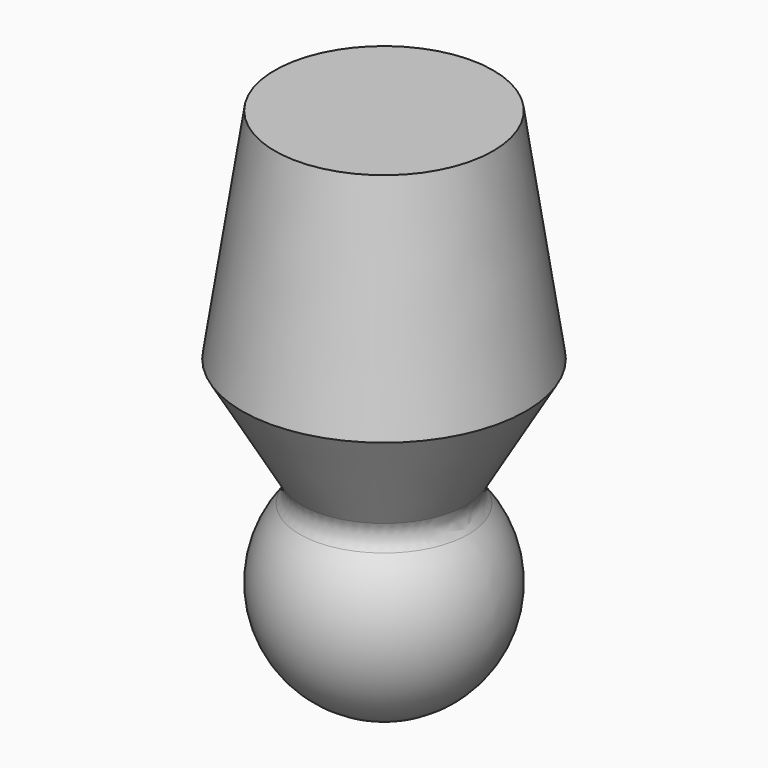
from build123d import *

# Parameters (mm, degrees)
FILLET005_R = 1


with BuildPart() as cone001:
    # Cone001 → Cone001 (revolve)
    with BuildSketch(Plane(origin=(0, 0, 17), x_dir=(1, 0, 0), z_dir=(0, -1, 0))):
        Polygon((0, 0), (6.5, 0), (5, 10), (0, 10), align=None)
    revolve(axis=Axis((0, 0, 17), (0, 0, 1)))


with BuildPart() as cone:
    # Cone → Cone (revolve)
    with BuildSketch(Plane(origin=(0, 0, 11), x_dir=(1, 0, 0), z_dir=(0, -1, 0))):
        Polygon((0, 0), (3, 0), (6.5, 6), (0, 6), align=None)
    revolve(axis=Axis((0, 0, 11), (0, 0, 1)))


with BuildPart() as shaft_in_place:
    # Sphere → Sphere (revolve)
    with BuildSketch(Plane(origin=(0, 0, 8), x_dir=(1, 0, 0), z_dir=(0, -1, 0))):
        with BuildLine():
            ThreePointArc((0, -5), (5, 0), (0, 5))
            Line((0, 5), (0, -5))
        make_face()
    revolve(axis=Axis((0, 0, 8), (0, 0, 1)))

    # Fusion: union Cone001, Cone
    add(cone001.part)
    add(cone.part)


with BuildPart() as shaft_in_place_1:
    # Fusion placement: moved
    add(shaft_in_place.part.moved(Location((0, 0, 0.5))))

    # Fillet005
    fillet005_edges = [shaft_in_place_1.edges().sort_by_distance(p)[0] for p in [
        (-3.392555, 0, 12.172951),
    ]]
    fillet(fillet005_edges, radius=FILLET005_R)


solid = shaft_in_place_1.part
